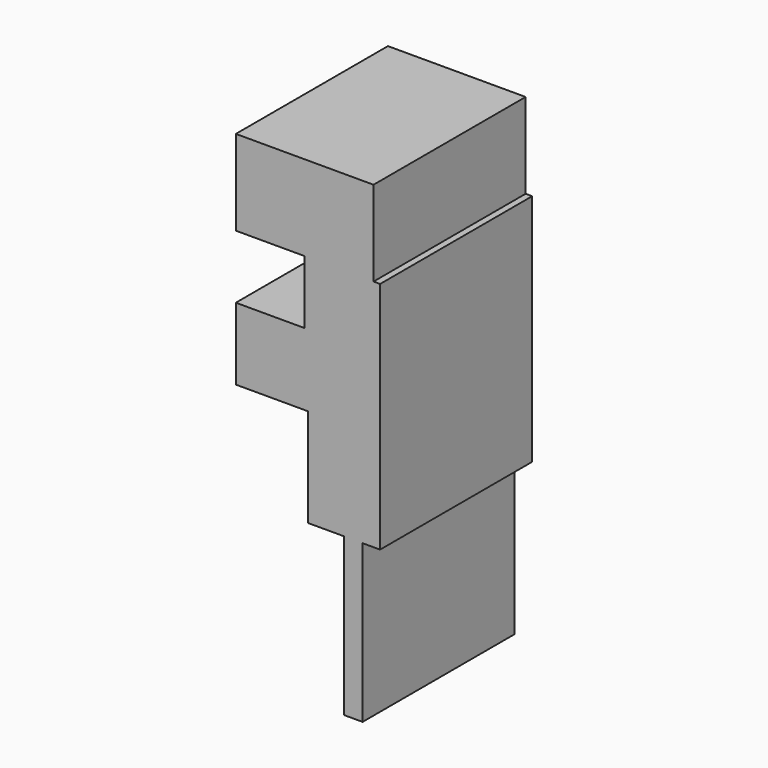
from build123d import *

# Parameters (mm, degrees)
F0_W     = 2.482063
F0_H     = 21.024525
F1_DEPTH = 25.4


with BuildPart() as f1:
    # F0 (on Front) → F1 (new body)
    with BuildSketch(Plane.XZ):
        Polygon((-19.710492, 4.526113), (-19.710492, 15.914397), (-38.106952, 15.914397), (-38.106952, 4.526113), (-28.908722, 4.526113), align=None)
        Polygon((-18.834472, 4.526113), (-19.710492, 4.526113), (-28.908722, 4.526113), (-28.908722, -3.942099), (-18.834472, -3.942099), align=None)
        Polygon((-18.834472, -3.942099), (-28.908722, -3.942099), (-38.106952, -3.942099), (-38.106952, -13.578339), (-28.470712, -13.578339), (-18.834472, -13.578339), align=None)
        Polygon((-18.834472, -26.718669), (-18.834472, -13.578339), (-28.470712, -13.578339), (-28.470712, -26.718669), (-23.652592, -26.718669), (-21.170529, -26.718669), align=None)
        with Locations((-22.411561, -37.230931)):
            Rectangle(F0_W, F0_H)
    extrude(amount=F1_DEPTH)


solid = f1.part
